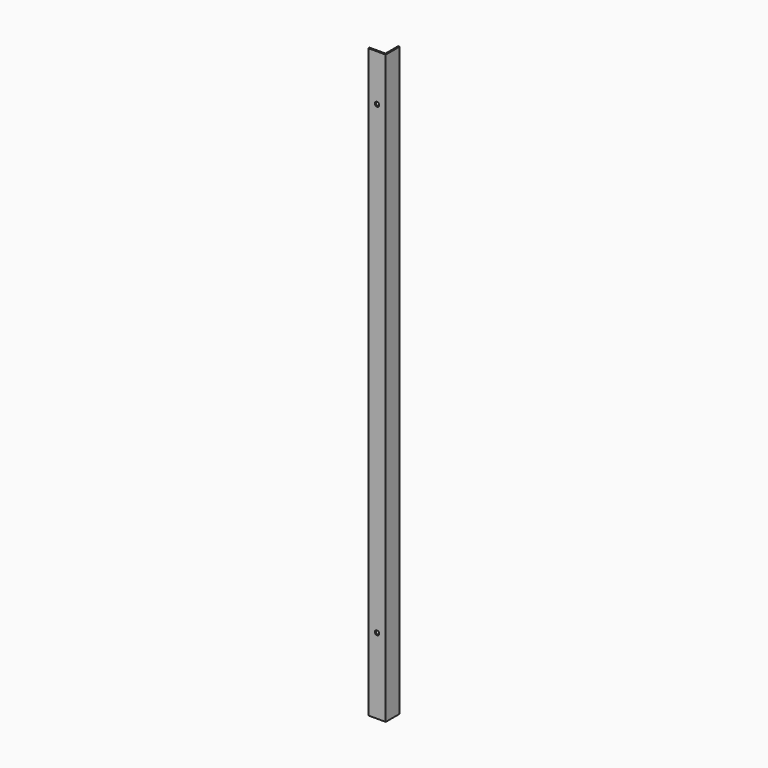
from build123d import *

# Parameters (mm, degrees)
F1_DEPTH = 1282.7
F2_R     = 4.7625
F3_DEPTH = 38.101


with BuildPart() as f1:
    # F0 (on Top) → F1 (new body)
    with BuildSketch(Plane.XY):
        Polygon((0, 3.175), (0, 0), (38.1, 0), (38.1, 38.1), (34.925, 38.1), (34.925, 3.175), align=None)
    extrude(amount=F1_DEPTH)

    # F2 (on face) → F3 (cut, through all)
    with BuildSketch(Plane.XZ):
        with Locations((19.001344, 1181.1)):
            Circle(F2_R)
        with Locations((19.001344, 165.1)):
            Circle(F2_R)
    extrude(amount=-F3_DEPTH, mode=Mode.SUBTRACT)


solid = f1.part
